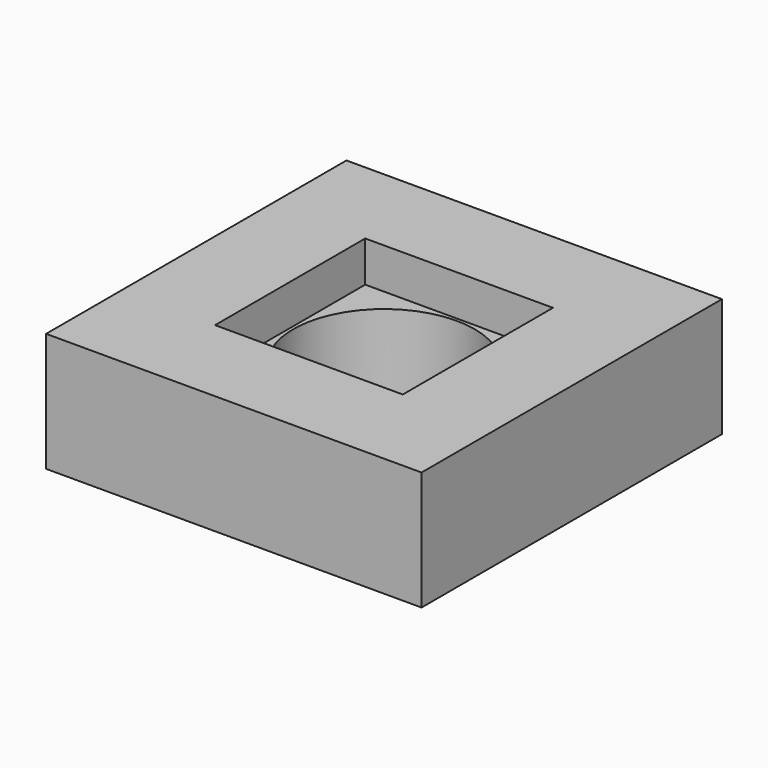
from build123d import *

# Parameters (mm, degrees)
F0_W     = 120
F0_H     = 120
F0_W_2   = 80
F0_H_2   = 80
F0_W_3   = 60
F0_H_3   = 60
F1_DEPTH = 38
F2_DEPTH = 25
F0_R     = 29
F3_DEPTH = 25


with BuildPart() as f1:
    # F0 (on Top) → F1 (new body)
    with BuildSketch(Plane.XY):
        Rectangle(F0_W, F0_H)
        Rectangle(F0_W_2, F0_H_2, mode=Mode.SUBTRACT)
        Rectangle(F0_W_2, F0_H_2)
        Rectangle(F0_W_3, F0_H_3, mode=Mode.SUBTRACT)
    extrude(amount=F1_DEPTH)


with BuildPart() as f2:
    # F0 (on Top) → F2 (new body)
    with BuildSketch(Plane.XY):
        Rectangle(F0_W_2, F0_H_2)
        Rectangle(F0_W_3, F0_H_3, mode=Mode.SUBTRACT)
    extrude(amount=F2_DEPTH)


with BuildPart() as f3:
    # F0 (on Top) → F3 (new body)
    with BuildSketch(Plane.XY):
        Rectangle(F0_W_3, F0_H_3)
        Circle(F0_R, mode=Mode.SUBTRACT)
    extrude(amount=F3_DEPTH)


solid = Compound([f1.part, f2.part, f3.part])
